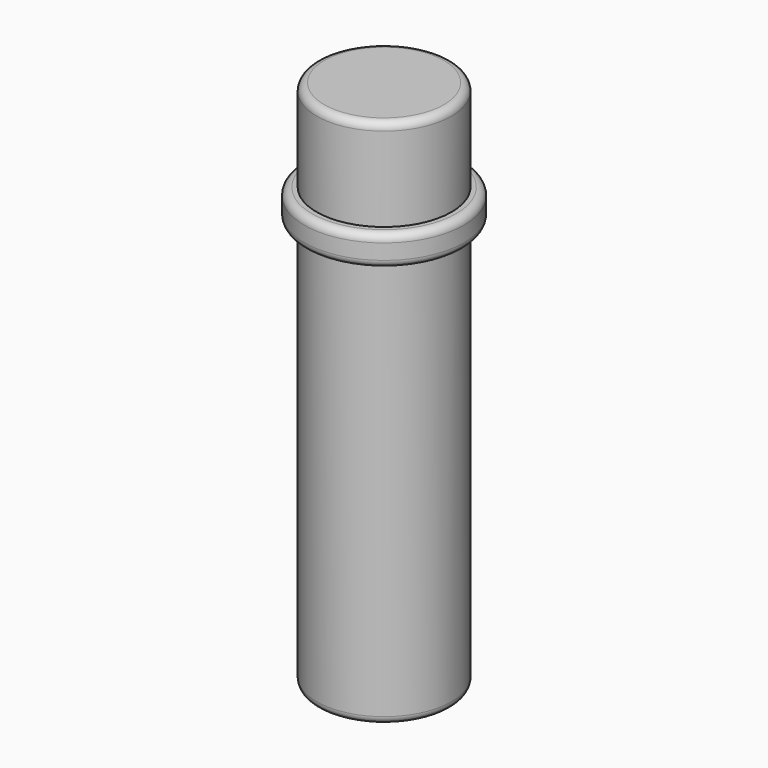
from build123d import *

# Parameters (mm, degrees)
SKETCH040_R       = 2.2
PAD032_DEPTH      = 17.3
CYLINDER002_R     = 2.6
CYLINDER002_DEPTH = 1
FILLET005_R       = 0.25


with BuildPart() as part:
    # Sketch040 → Pad032 (new body)
    with BuildSketch(Plane.XY):
        with Locations((125.3, 21.3)):
            Circle(SKETCH040_R)
    extrude(amount=PAD032_DEPTH)

    # Cylinder002 → Cylinder002 (join)
    with BuildSketch(Plane(origin=(125.3, 21.3, 13.3), x_dir=(1, 0, 0), z_dir=(0, 0, 1))):
        Circle(CYLINDER002_R)
    extrude(amount=CYLINDER002_DEPTH)

    # Fillet005
    fillet005_edges = [part.edges().sort_by_distance(p)[0] for p in [
        (122.7, 21.3, 14.3),
        (122.7, 21.3, 13.3),
        (123.1, 21.3, 17.3),
        (123.1, 21.3, 0),
    ]]
    fillet(fillet005_edges, radius=FILLET005_R)


with BuildPart() as part_1:
    # Body034 placement: moved
    add(part.part.moved(Location((0, 0, 12))))


solid = part_1.part
